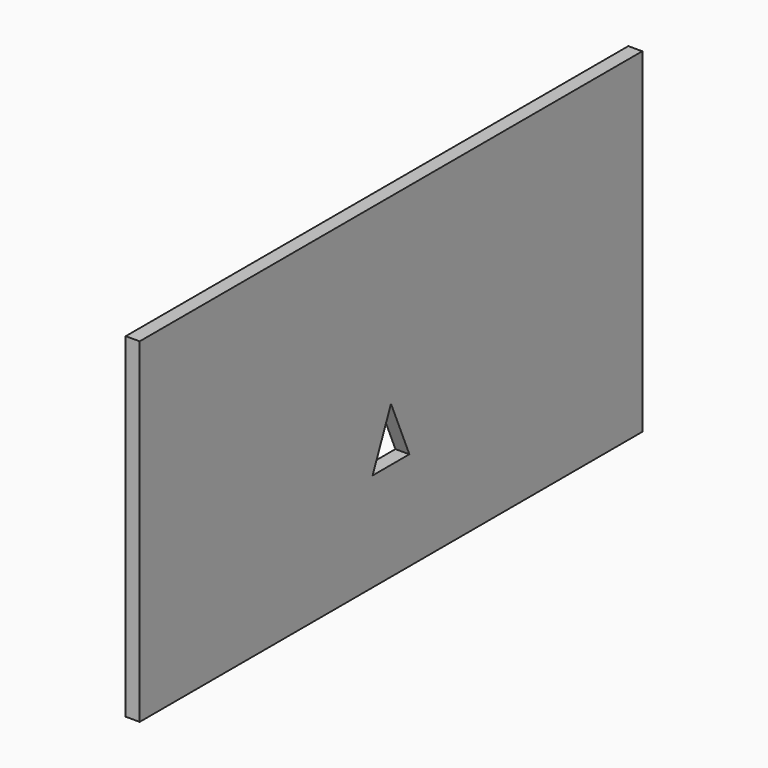
from build123d import *

# Parameters (mm, degrees)
PAD_DEPTH    = 10
POCKET_DEPTH = 10.001


with BuildPart() as part:
    # Sketch → Pad (new body)
    with BuildSketch(Plane.YZ):
        Polygon((0, 0), (0, 240), (450, 240), (450, 0), (225, 0), align=None)
    extrude(amount=-PAD_DEPTH)

    # Sketch001 → Pocket (cut, through all)
    with BuildSketch(Plane.YZ):
        Polygon((225, 70.62109), (208.541263, 70.62109), (225, 109.167255), (241.458737, 70.62109), align=None)
    extrude(amount=-POCKET_DEPTH, mode=Mode.SUBTRACT)


solid = part.part
